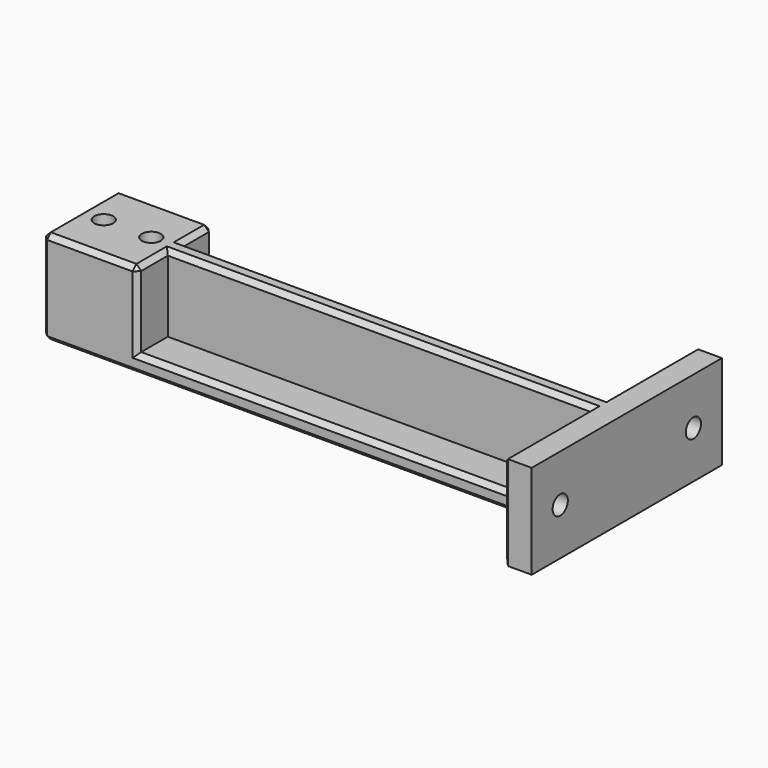
from build123d import *

# Parameters (mm, degrees)
SKETCH_R        = 2
PAD_DEPTH       = 19.8
SKETCH001_W     = 89
SKETCH001_H     = 8
POCKET_DEPTH    = 16
SKETCH002_R     = 2
POCKET001_DEPTH = 115.001
CHAMFER_SIZE    = 2
CHAMFER001_SIZE = 1


with BuildPart() as part:
    # Sketch → Pad (new body)
    with BuildSketch(Plane.XY):
        Polygon((0, 9.9), (109, 9.9), (109, 25), (115, 25), (115, -25), (109, -25), (109, -9.9), (0, -9.9), align=None)
        with Locations((5, 0)):
            Circle(SKETCH_R, mode=Mode.SUBTRACT)
        with Locations((15, 0)):
            Circle(SKETCH_R, mode=Mode.SUBTRACT)
    extrude(amount=PAD_DEPTH)

    # Sketch001 (on Face12 of Pad) → Pocket (cut)
    with BuildSketch(Plane.XY.offset(19.8)):
        with Locations((64.5, -5.9)):
            Rectangle(SKETCH001_W, SKETCH001_H)
        with Locations((64.5, 5.9)):
            Rectangle(SKETCH001_W, SKETCH001_H)
    extrude(amount=-POCKET_DEPTH, mode=Mode.SUBTRACT)

    # Sketch002 (on Face9 of Pocket) → Pocket001 (cut, through all)
    with BuildSketch(Plane.YZ.offset(115)):
        with Locations((-17.5, 9.9)):
            Circle(SKETCH002_R)
        with Locations((17.5, 9.9)):
            Circle(SKETCH002_R)
    extrude(amount=-POCKET001_DEPTH, mode=Mode.SUBTRACT)

    # Chamfer
    chamfer_edges = [part.edges().sort_by_distance(p)[0] for p in [
        (109, -19.5, 9.9),
        (109, 15.5, 9.9),
    ]]
    chamfer(chamfer_edges, length=CHAMFER_SIZE)

    # Chamfer001
    chamfer001_edges = [part.edges().sort_by_distance(p)[0] for p in [
        (0, -9.9, 9.9),
        (0, 9.9, 9.9),
        (0, 0, 19.8),
        (0, 0, 0),
        (54.5, 9.9, 0),
        (54.5, -9.9, 0),
        (64.5, 9.9, 3.8),
        (64.5, -9.9, 3.8),
        (20, -9.9, 11.8),
        (10, -9.9, 19.8),
        (20, -5.9, 19.8),
        (20, 5.9, 19.8),
        (10, 9.9, 19.8),
        (20, 9.9, 11.8),
        (64.5, -1.9, 19.8),
        (64.5, 1.9, 19.8),
        (109, -17.45, 0),
        (109, 17.45, 0),
        (109, -17.45, 19.8),
        (109, 17.45, 19.8),
        (109, -25, 9.9),
        (109, 25, 9.9),
    ]]
    chamfer(chamfer001_edges, length=CHAMFER001_SIZE)


solid = part.part
